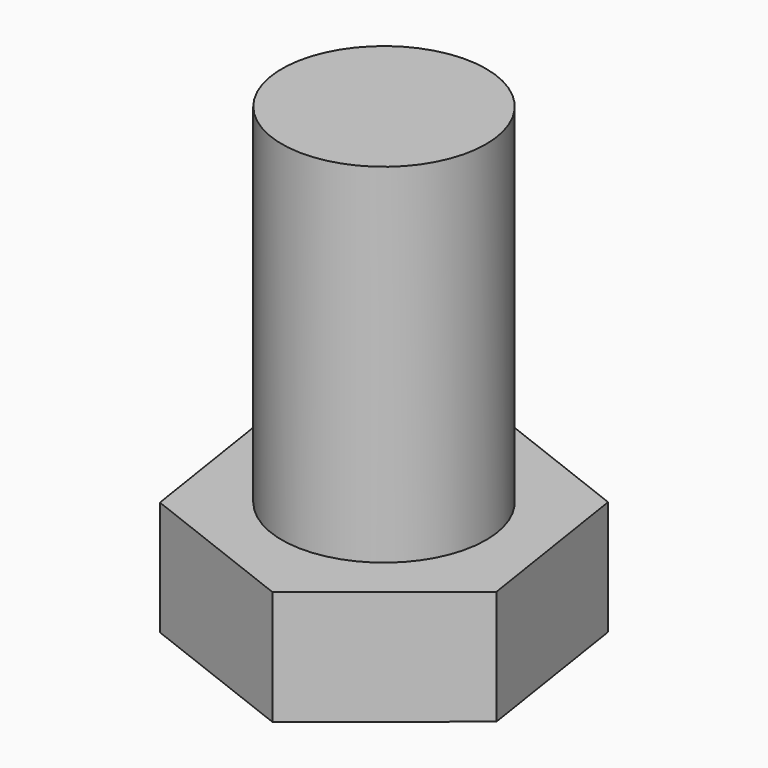
from build123d import *

# Parameters (mm, degrees)
F1_DEPTH = 2.667
F2_R     = 4.7625
F3_DEPTH = 16.256


with BuildPart() as f1:
    # F0 (on Top) → F1 (new body, symmetric)
    with BuildSketch(Plane.XY):
        Polygon((-1.245599, 8.065583), (-7.6078, 2.954071), (-6.3622, -5.111512), (1.245599, -8.065583), (7.6078, -2.954071), (6.3622, 5.111512), align=None)
    extrude(amount=F1_DEPTH, both=True)

    # F2 (on face) → F3 (join)
    with BuildSketch(Plane.XY.offset(2.667)):
        Circle(F2_R)
    extrude(amount=F3_DEPTH)


solid = f1.part
